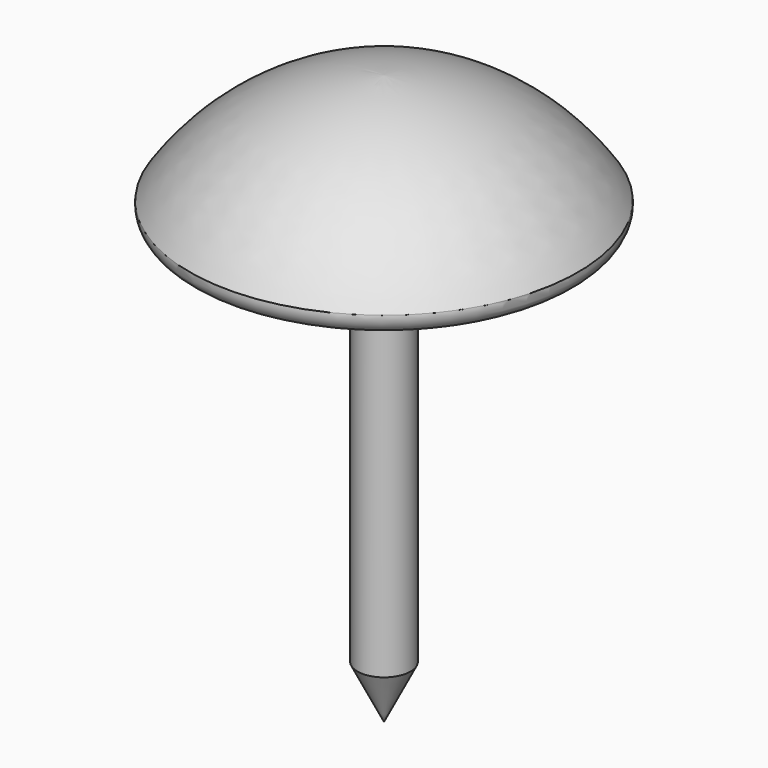
from build123d import *


with BuildPart() as f2:
    # F0 (on Front) → F2 (revolve)
    with BuildSketch(Plane.XZ):
        with BuildLine():
            Line((0, 2.2214901341), (0, 3.1226633991))
            ThreePointArc((0, 3.1226633991), (-3.1227773594, 2.2179107843), (-5.5, 0))
            ThreePointArc((-5.5, 0), (-5.279137924, -0.4829929439), (-4.7481725398, -0.494740338))
            ThreePointArc((-4.7481725398, -0.494740338), (-2.695626538, 1.4254511605), (0, 2.2214901341))
        make_face()
    revolve(axis=Axis((0, 0, 3.3572772518), (0, 0, 1)))

    # F3 (on Front) → F4 (revolve)
    with BuildSketch(Plane.XZ):
        Polygon((0, -13), (0, 3), (-0.75, 3), (-0.75, -11.5), align=None)
    revolve(axis=Axis((0, 0, 3.3572772518), (0, 0, 1)))


solid = f2.part
